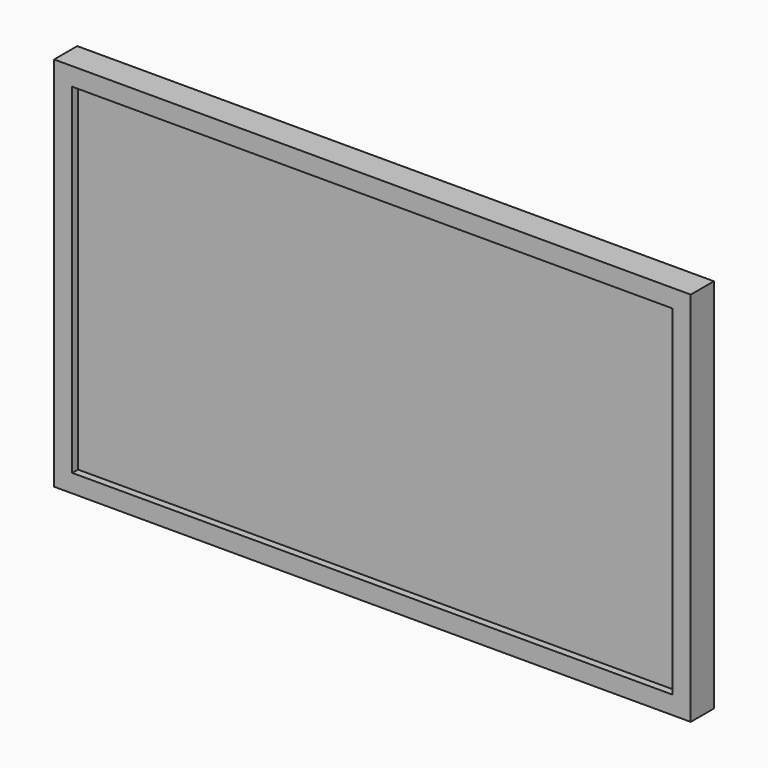
from build123d import *

# Parameters (mm, degrees)
F0_W     = 558.8
F0_H     = 330.2
F0_W_2   = 527.05
F0_H_2   = 298.45
F1_DEPTH = 25.4
F2_DEPTH = 19.05
F3_W     = 406.4
F3_H     = 209.55
F4_DEPTH = 19.05


with BuildPart() as f1:
    # F0 (on Front) → F1 (new body)
    with BuildSketch(Plane.XZ):
        with Locations((-9.705722, 22.848336)):
            Rectangle(F0_W, F0_H)
        with Locations((-9.705722, 22.848336)):
            Rectangle(F0_W_2, F0_H_2, mode=Mode.SUBTRACT)
    extrude(amount=F1_DEPTH)

    # F0 (on Front) → F2 (join)
    with BuildSketch(Plane.XZ):
        with Locations((-9.705722, 22.848336)):
            Rectangle(F0_W_2, F0_H_2)
    extrude(amount=F2_DEPTH)

    # F3 (on face) → F4 (join)
    with BuildSketch(Plane.XZ):
        with Locations((-9.705722, 26.023336)):
            Rectangle(F3_W, F3_H)
    extrude(amount=-F4_DEPTH)


solid = f1.part
